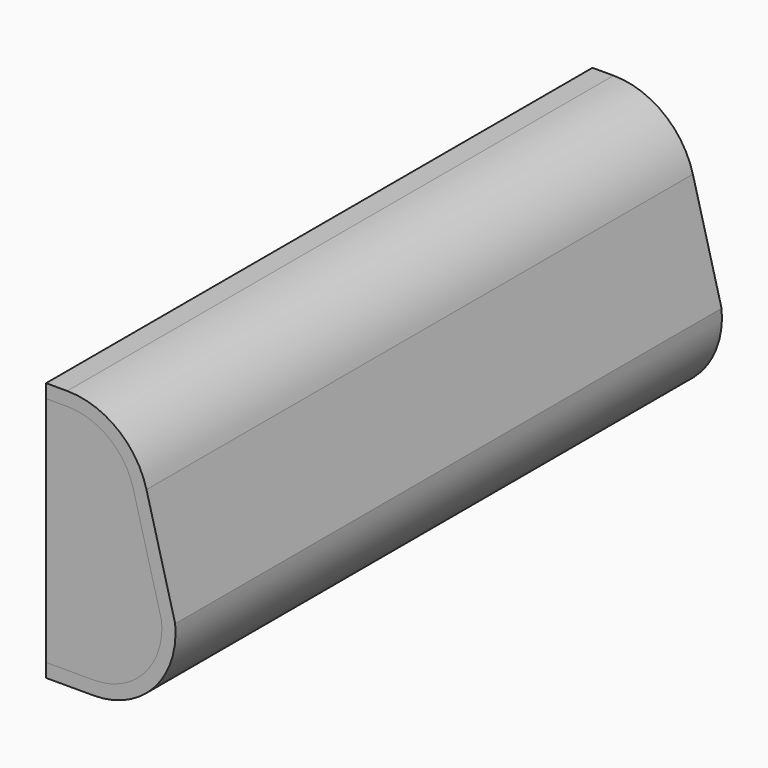
from build123d import *

# Parameters (mm, degrees)
F1_DEPTH = 50
F3_DEPTH = 2500


with BuildPart() as f1:
    # F0 (on Front) → F1 (new body)
    with BuildSketch(Plane.XZ):
        with BuildLine():
            Line((847.792064, 265.193427), (847.792064, -584.806573))
            Line((847.792064, -584.806573), (1021.725236, -584.806573))
            ThreePointArc((1021.725236, -584.806573), (1205.393704, -504.411684), (1270.934123, -314.933723))
            Line((1270.934123, -314.933723), (1166.942744, 79.002618))
            ThreePointArc((1166.942744, 79.002618), (1077.780796, 213.24935), (925.223098, 265.193427))
            Line((925.223098, 265.193427), (847.792064, 265.193427))
        make_face()
    extrude(amount=F1_DEPTH)


with BuildPart() as f3:
    # F2 (on face) → F3 (new body)
    with BuildSketch(Plane.XZ.offset(50)):
        with BuildLine():
            Line((847.792064, 315.193427), (847.792064, 265.193427))
            Line((847.792064, 265.193427), (925.223098, 265.193427))
            ThreePointArc((925.223098, 265.193427), (1077.780796, 213.24935), (1166.942744, 79.002618))
            Line((1166.942744, 79.002618), (1270.934123, -314.933723))
            ThreePointArc((1270.934123, -314.933723), (1205.393704, -504.411684), (1021.725236, -584.806573))
            Line((1021.725236, -584.806573), (847.792064, -584.806573))
            Line((847.792064, -584.806573), (847.792064, -634.806573))
            Line((847.792064, -634.806573), (1021.725236, -634.806573))
            ThreePointArc((1021.725236, -634.806573), (1243.707192, -536.608484), (1320.367788, -306.299981))
            Line((1320.367788, -306.299981), (1215.286673, 91.764456))
            ThreePointArc((1215.286673, 91.764456), (1108.292335, 252.860535), (925.223098, 315.193427))
            Line((925.223098, 315.193427), (847.792064, 315.193427))
        make_face()
    extrude(amount=-F3_DEPTH)


with BuildPart() as f4_1:
    # F4: copy of F1
    add(f1.part.moved(Location((0, 2450, 0))))


solid = Compound([f1.part, f3.part, f4_1.part])
